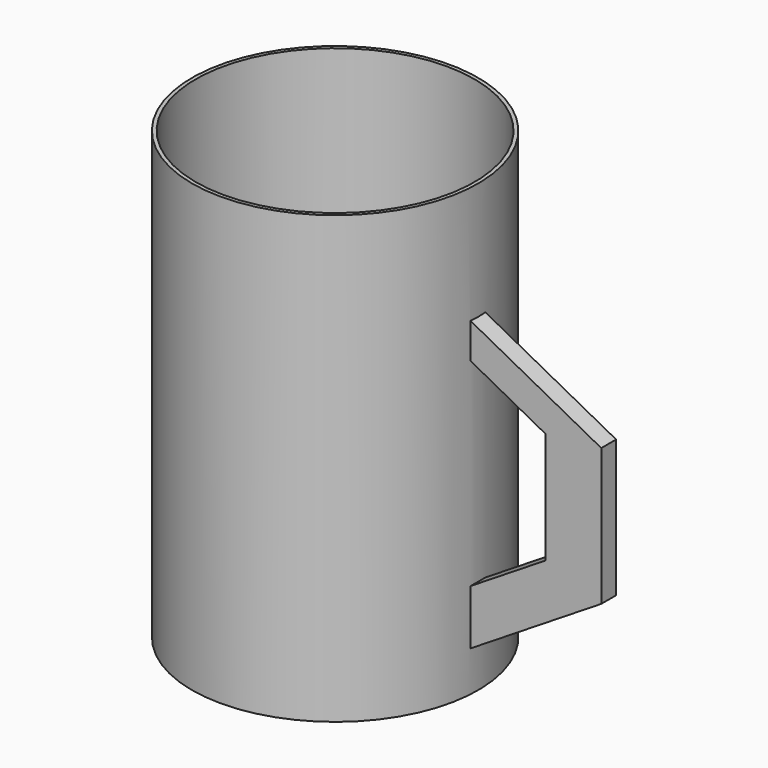
from build123d import *

# Parameters (mm, degrees)
F0_W     = 38.5
F0_H     = 120
F2_T     = -1
F4_DEPTH = 2.5


with BuildPart() as f1:
    # F0 (on Right) → F1 (revolve)
    with BuildSketch(Plane.YZ):
        with Locations((-19.25, 60)):
            Rectangle(F0_W, F0_H)
    revolve(axis=Axis((0, 0, 60), (0, 0, -1)))

    # F2
    f2_openings = [f1.faces().sort_by_distance(p)[0] for p in [
        (0, 0, 120),
    ]]
    offset(amount=F2_T, openings=f2_openings)

    # F3 (on Front) → F4 (join, symmetric)
    with BuildSketch(Plane.XZ):
        Polygon((73.600475, 69.767932), (38.349035, 88.511455), (38.184893, 79.107806), (58.600475, 68.252649), (58.600475, 38.252649), (37.887409, 25.309689), (37.887409, 10.546948), (73.600475, 32.862948), align=None)
    extrude(amount=F4_DEPTH, both=True)


solid = f1.part
